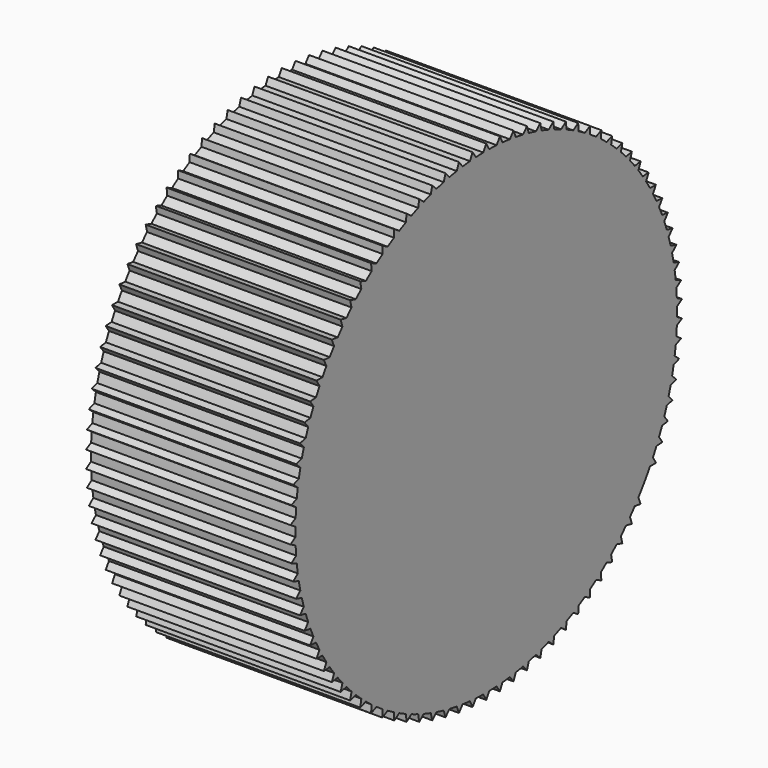
from build123d import *

# Parameters (mm, degrees)
F1_DEPTH = 15


with BuildPart() as f1:
    # F0 (on Right) → F1 (new body)
    with BuildSketch(Plane.YZ):
        with BuildLine():
            Line((-16.659354, 6.730816), (-16.325375, 6.303343))
            ThreePointArc((-16.325375, 6.303343), (-16.444621, 5.985353), (-16.557673, 5.665108))
            Line((-16.557673, 5.665108), (-17.08829, 5.552322))
            Line((-17.08829, 5.552322), (-16.725306, 5.149187))
            ThreePointArc((-16.725306, 5.149187), (-16.82208, 4.823654), (-16.912518, 4.496303))
            Line((-16.912518, 4.496303), (-17.433974, 4.346778))
            Line((-17.433974, 4.346778), (-17.043753, 3.969946))
            ThreePointArc((-17.043753, 3.969946), (-17.117583, 3.638455), (-17.184966, 3.305593))
            Line((-17.184966, 3.305593), (-17.694722, 3.120057))
            Line((-17.694722, 3.120057), (-17.279165, 2.771363))
            ThreePointArc((-17.279165, 2.771363), (-17.329691, 2.435529), (-17.373691, 2.098778))
            Line((-17.373691, 2.098778), (-17.869263, 1.878135))
            Line((-17.869263, 1.878135), (-17.430394, 1.559279))
            ThreePointArc((-17.430394, 1.559279), (-17.457371, 1.220738), (-17.477773, 0.881738))
            Line((-17.477773, 0.881738), (-17.956746, 0.627063))
            Line((-17.956746, 0.627063), (-17.496705, 0.339598))
            ThreePointArc((-17.496705, 0.339598), (-17.5, 0), (-17.496705, -0.339598))
            Line((-17.496705, -0.339598), (-17.956746, -0.627063))
            Line((-17.956746, -0.627063), (-17.477773, -0.881738))
            ThreePointArc((-17.477773, -0.881738), (-17.457371, -1.220738), (-17.430394, -1.559279))
            Line((-17.430394, -1.559279), (-17.869263, -1.878135))
            Line((-17.869263, -1.878135), (-17.373691, -2.098778))
            ThreePointArc((-17.373691, -2.098778), (-17.329691, -2.435529), (-17.279165, -2.771363))
            Line((-17.279165, -2.771363), (-17.694722, -3.120057))
            Line((-17.694722, -3.120057), (-17.184966, -3.305593))
            ThreePointArc((-17.184966, -3.305593), (-17.117583, -3.638455), (-17.043753, -3.969946))
            Line((-17.043753, -3.969946), (-17.433974, -4.346778))
            Line((-17.433974, -4.346778), (-16.912518, -4.496303))
            ThreePointArc((-16.912518, -4.496303), (-16.82208, -4.823654), (-16.725306, -5.149187))
            Line((-16.725306, -5.149187), (-17.08829, -5.552322))
            Line((-17.08829, -5.552322), (-16.557673, -5.665108))
            ThreePointArc((-16.557673, -5.665108), (-16.444621, -5.985353), (-16.325375, -6.303343))
            Line((-16.325375, -6.303343), (-16.659354, -6.730816))
            Line((-16.659354, -6.730816), (-16.122162, -6.806313))
            ThreePointArc((-16.122162, -6.806313), (-15.987046, -7.117891), (-15.845908, -7.426789))
            Line((-15.845908, -7.426789), (-16.149254, -7.876518))
            Line((-16.149254, -7.876518), (-15.608105, -7.914358))
            ThreePointArc((-15.608105, -7.914358), (-15.451583, -8.215752), (-15.289242, -8.514052))
            Line((-15.289242, -8.514052), (-15.560477, -8.983846))
            Line((-15.560477, -8.983846), (-15.018006, -8.983846))
            ThreePointArc((-15.018006, -8.983846), (-14.840842, -9.273587), (-14.658088, -9.559836))
            Line((-14.658088, -9.559836), (-14.895891, -10.047406))
            Line((-14.895891, -10.047406), (-14.354742, -10.009565))
            ThreePointArc((-14.354742, -10.009565), (-14.157797, -10.286242), (-13.955521, -10.559045))
            Line((-13.955521, -10.559045), (-14.158734, -11.062016))
            Line((-14.158734, -11.062016), (-13.621542, -10.986518))
            ThreePointArc((-13.621542, -10.986518), (-13.405778, -11.248783), (-13.184964, -11.506812))
            Line((-13.184964, -11.506812), (-13.352597, -12.022732))
            Line((-13.352597, -12.022732), (-12.82198, -11.909946))
            ThreePointArc((-12.82198, -11.909946), (-12.588447, -12.156521), (-12.350172, -12.398518))
            Line((-12.350172, -12.398518), (-12.481407, -12.924876))
            Line((-12.481407, -12.924876), (-11.959951, -12.77535))
            ThreePointArc((-11.959951, -12.77535), (-11.709786, -13.005034), (-11.45521, -13.229821))
            Line((-11.45521, -13.229821), (-11.54941, -13.76405))
            Line((-11.54941, -13.76405), (-11.039653, -13.578514))
            ThreePointArc((-11.039653, -13.578514), (-10.774076, -13.790188), (-10.50444, -13.996669))
            Line((-10.50444, -13.996669), (-10.561144, -14.536168))
            Line((-10.561144, -14.536168), (-10.065572, -14.315525))
            ThreePointArc((-10.065572, -14.315525), (-9.785876, -14.508158), (-9.502494, -14.695326))
            Line((-9.502494, -14.695326), (-9.521426, -15.237467))
            Line((-9.521426, -15.237467), (-9.042452, -14.982792))
            ThreePointArc((-9.042452, -14.982792), (-8.75, -15.155445), (-8.454252, -15.322389))
            Line((-8.454252, -15.322389), (-8.43532, -15.86453))
            Line((-8.43532, -15.86453), (-7.975279, -15.577064))
            ThreePointArc((-7.975279, -15.577064), (-7.671495, -15.728896), (-7.364822, -15.874804))
            Line((-7.364822, -15.874804), (-7.308119, -16.414303))
            Line((-7.308119, -16.414303), (-6.86925, -16.095447))
            ThreePointArc((-6.86925, -16.095447), (-6.555615, -16.225717), (-6.239512, -16.349878))
            Line((-6.239512, -16.349878), (-6.145312, -16.884107))
            Line((-6.145312, -16.884107), (-5.729756, -16.535414))
            ThreePointArc((-5.729756, -16.535414), (-5.407797, -16.643489), (-5.083803, -16.745296))
            Line((-5.083803, -16.745296), (-4.952567, -17.271654))
            Line((-4.952567, -17.271654), (-4.562346, -16.894822))
            ThreePointArc((-4.562346, -16.894822), (-4.233633, -16.980175), (-3.903326, -17.059134))
            Line((-3.903326, -17.059134), (-3.735693, -17.575054))
            Line((-3.735693, -17.575054), (-3.372709, -17.17192))
            ThreePointArc((-3.372709, -17.17192), (-3.038843, -17.234136), (-2.703833, -17.289861))
            Line((-2.703833, -17.289861), (-2.500619, -17.792831))
            Line((-2.500619, -17.792831), (-2.166641, -17.365358))
            ThreePointArc((-2.166641, -17.365358), (-1.829248, -17.404133), (-1.491166, -17.436353))
            Line((-1.491166, -17.436353), (-1.253363, -17.923923))
            Line((-1.253363, -17.923923), (-0.950017, -17.474194))
            ThreePointArc((-0.950017, -17.474194), (-0.610741, -17.489339), (-0.271236, -17.497898))
            Line((-0.271236, -17.497898), (0, -17.967692))
            Line((0, -17.967692), (0.271236, -17.497898))
            ThreePointArc((0.271236, -17.497898), (0.610741, -17.489339), (0.950017, -17.474194))
            Line((0.950017, -17.474194), (1.253363, -17.923923))
            Line((1.253363, -17.923923), (1.491166, -17.436353))
            ThreePointArc((1.491166, -17.436353), (1.829248, -17.404133), (2.166641, -17.365358))
            Line((2.166641, -17.365358), (2.500619, -17.792831))
            Line((2.500619, -17.792831), (2.703833, -17.289861))
            ThreePointArc((2.703833, -17.289861), (3.038843, -17.234136), (3.372709, -17.17192))
            Line((3.372709, -17.17192), (3.735693, -17.575054))
            Line((3.735693, -17.575054), (3.903326, -17.059134))
            ThreePointArc((3.903326, -17.059134), (4.233633, -16.980175), (4.562346, -16.894822))
            Line((4.562346, -16.894822), (4.952567, -17.271654))
            Line((4.952567, -17.271654), (5.083803, -16.745296))
            ThreePointArc((5.083803, -16.745296), (5.407797, -16.643489), (5.729756, -16.535414))
            Line((5.729756, -16.535414), (6.145312, -16.884107))
            Line((6.145312, -16.884107), (6.239512, -16.349878))
            ThreePointArc((6.239512, -16.349878), (6.555615, -16.225717), (6.86925, -16.095447))
            Line((6.86925, -16.095447), (7.308119, -16.414303))
            Line((7.308119, -16.414303), (7.364822, -15.874804))
            ThreePointArc((7.364822, -15.874804), (7.671495, -15.728896), (7.975279, -15.577064))
            Line((7.975279, -15.577064), (8.43532, -15.86453))
            Line((8.43532, -15.86453), (8.454252, -15.322389))
            ThreePointArc((8.454252, -15.322389), (8.75, -15.155445), (9.042452, -14.982792))
            Line((9.042452, -14.982792), (9.521426, -15.237467))
            Line((9.521426, -15.237467), (9.502494, -14.695326))
            ThreePointArc((9.502494, -14.695326), (9.785876, -14.508158), (10.065572, -14.315525))
            Line((10.065572, -14.315525), (10.561144, -14.536168))
            Line((10.561144, -14.536168), (10.50444, -13.996669))
            ThreePointArc((10.50444, -13.996669), (10.774076, -13.790188), (11.039653, -13.578514))
            Line((11.039653, -13.578514), (11.54941, -13.76405))
            Line((11.54941, -13.76405), (11.45521, -13.229821))
            ThreePointArc((11.45521, -13.229821), (11.709786, -13.005034), (11.959951, -12.77535))
            Line((11.959951, -12.77535), (12.481407, -12.924876))
            Line((12.481407, -12.924876), (12.350172, -12.398518))
            ThreePointArc((12.350172, -12.398518), (12.588447, -12.156521), (12.82198, -11.909946))
            Line((12.82198, -11.909946), (13.352597, -12.022732))
            Line((13.352597, -12.022732), (13.184964, -11.506812))
            ThreePointArc((13.184964, -11.506812), (13.405778, -11.248783), (13.621542, -10.986518))
            Line((13.621542, -10.986518), (14.158734, -11.062016))
            Line((14.158734, -11.062016), (13.955521, -10.559045))
            ThreePointArc((13.955521, -10.559045), (14.157797, -10.286242), (14.354742, -10.009565))
            ThreePointArc((14.354742, -10.009565), (14.508158, -9.785876), (14.658088, -9.559836))
            ThreePointArc((14.658088, -9.559836), (14.840842, -9.273587), (15.018006, -8.983846))
            Line((15.018006, -8.983846), (15.560477, -8.983846))
            Line((15.560477, -8.983846), (15.289242, -8.514052))
            ThreePointArc((15.289242, -8.514052), (15.451583, -8.215752), (15.608105, -7.914358))
            Line((15.608105, -7.914358), (16.149254, -7.876518))
            Line((16.149254, -7.876518), (15.845908, -7.426789))
            ThreePointArc((15.845908, -7.426789), (15.987046, -7.117891), (16.122162, -6.806313))
            Line((16.122162, -6.806313), (16.659354, -6.730816))
            Line((16.659354, -6.730816), (16.325375, -6.303343))
            ThreePointArc((16.325375, -6.303343), (16.444621, -5.985353), (16.557673, -5.665108))
            Line((16.557673, -5.665108), (17.08829, -5.552322))
            Line((17.08829, -5.552322), (16.725306, -5.149187))
            ThreePointArc((16.725306, -5.149187), (16.82208, -4.823654), (16.912518, -4.496303))
            Line((16.912518, -4.496303), (17.433974, -4.346778))
            Line((17.433974, -4.346778), (17.043753, -3.969946))
            ThreePointArc((17.043753, -3.969946), (17.117583, -3.638455), (17.184966, -3.305593))
            Line((17.184966, -3.305593), (17.694722, -3.120057))
            Line((17.694722, -3.120057), (17.279165, -2.771363))
            ThreePointArc((17.279165, -2.771363), (17.329691, -2.435529), (17.373691, -2.098778))
            Line((17.373691, -2.098778), (17.869263, -1.878135))
            Line((17.869263, -1.878135), (17.430394, -1.559279))
            ThreePointArc((17.430394, -1.559279), (17.457371, -1.220738), (17.477773, -0.881738))
            Line((17.477773, -0.881738), (17.956746, -0.627063))
            Line((17.956746, -0.627063), (17.496705, -0.339598))
            ThreePointArc((17.496705, -0.339598), (17.5, 0), (17.496705, 0.339598))
            Line((17.496705, 0.339598), (17.956746, 0.627063))
            Line((17.956746, 0.627063), (17.477773, 0.881738))
            ThreePointArc((17.477773, 0.881738), (17.457371, 1.220738), (17.430394, 1.559279))
            Line((17.430394, 1.559279), (17.869263, 1.878135))
            Line((17.869263, 1.878135), (17.373691, 2.098778))
            ThreePointArc((17.373691, 2.098778), (17.329691, 2.435529), (17.279165, 2.771363))
            Line((17.279165, 2.771363), (17.694722, 3.120057))
            Line((17.694722, 3.120057), (17.184966, 3.305593))
            ThreePointArc((17.184966, 3.305593), (17.117583, 3.638455), (17.043753, 3.969946))
            Line((17.043753, 3.969946), (17.433974, 4.346778))
            Line((17.433974, 4.346778), (16.912518, 4.496303))
            ThreePointArc((16.912518, 4.496303), (16.82208, 4.823654), (16.725306, 5.149187))
            Line((16.725306, 5.149187), (17.08829, 5.552322))
            Line((17.08829, 5.552322), (16.557673, 5.665108))
            ThreePointArc((16.557673, 5.665108), (16.444621, 5.985353), (16.325375, 6.303343))
            Line((16.325375, 6.303343), (16.659354, 6.730816))
            Line((16.659354, 6.730816), (16.122162, 6.806313))
            ThreePointArc((16.122162, 6.806313), (15.987046, 7.117891), (15.845908, 7.426789))
            Line((15.845908, 7.426789), (16.149254, 7.876518))
            Line((16.149254, 7.876518), (15.608105, 7.914358))
            ThreePointArc((15.608105, 7.914358), (15.451583, 8.215752), (15.289242, 8.514052))
            Line((15.289242, 8.514052), (15.560477, 8.983846))
            Line((15.560477, 8.983846), (15.018006, 8.983846))
            ThreePointArc((15.018006, 8.983846), (14.840842, 9.273587), (14.658088, 9.559836))
            Line((14.658088, 9.559836), (14.895891, 10.047406))
            Line((14.895891, 10.047406), (14.354742, 10.009565))
            ThreePointArc((14.354742, 10.009565), (14.157797, 10.286242), (13.955521, 10.559045))
            Line((13.955521, 10.559045), (14.158734, 11.062016))
            Line((14.158734, 11.062016), (13.621542, 10.986518))
            ThreePointArc((13.621542, 10.986518), (13.405778, 11.248783), (13.184964, 11.506812))
            Line((13.184964, 11.506812), (13.352597, 12.022732))
            Line((13.352597, 12.022732), (12.82198, 11.909946))
            ThreePointArc((12.82198, 11.909946), (12.588447, 12.156521), (12.350172, 12.398518))
            Line((12.350172, 12.398518), (12.481407, 12.924876))
            Line((12.481407, 12.924876), (11.959951, 12.77535))
            ThreePointArc((11.959951, 12.77535), (11.709786, 13.005034), (11.45521, 13.229821))
            Line((11.45521, 13.229821), (11.54941, 13.76405))
            Line((11.54941, 13.76405), (11.039653, 13.578514))
            ThreePointArc((11.039653, 13.578514), (10.774076, 13.790188), (10.50444, 13.996669))
            Line((10.50444, 13.996669), (10.561144, 14.536168))
            Line((10.561144, 14.536168), (10.065572, 14.315525))
            ThreePointArc((10.065572, 14.315525), (9.785876, 14.508158), (9.502494, 14.695326))
            Line((9.502494, 14.695326), (9.521426, 15.237467))
            Line((9.521426, 15.237467), (9.042452, 14.982792))
            ThreePointArc((9.042452, 14.982792), (8.75, 15.155445), (8.454252, 15.322389))
            Line((8.454252, 15.322389), (8.43532, 15.86453))
            Line((8.43532, 15.86453), (7.975279, 15.577064))
            ThreePointArc((7.975279, 15.577064), (7.671495, 15.728896), (7.364822, 15.874804))
            Line((7.364822, 15.874804), (7.308119, 16.414303))
            Line((7.308119, 16.414303), (6.86925, 16.095447))
            ThreePointArc((6.86925, 16.095447), (6.555615, 16.225717), (6.239512, 16.349878))
            Line((6.239512, 16.349878), (6.145312, 16.884107))
            Line((6.145312, 16.884107), (5.729756, 16.535414))
            ThreePointArc((5.729756, 16.535414), (5.407797, 16.643489), (5.083803, 16.745296))
            Line((5.083803, 16.745296), (4.952567, 17.271654))
            Line((4.952567, 17.271654), (4.562346, 16.894822))
            ThreePointArc((4.562346, 16.894822), (4.233633, 16.980175), (3.903326, 17.059134))
            Line((3.903326, 17.059134), (3.735693, 17.575054))
            Line((3.735693, 17.575054), (3.372709, 17.17192))
            ThreePointArc((3.372709, 17.17192), (3.038843, 17.234136), (2.703833, 17.289861))
            Line((2.703833, 17.289861), (2.500619, 17.792831))
            Line((2.500619, 17.792831), (2.166641, 17.365358))
            ThreePointArc((2.166641, 17.365358), (1.829248, 17.404133), (1.491166, 17.436353))
            Line((1.491166, 17.436353), (1.253363, 17.923923))
            Line((1.253363, 17.923923), (0.950017, 17.474194))
            ThreePointArc((0.950017, 17.474194), (0.610741, 17.489339), (0.271236, 17.497898))
            Line((0.271236, 17.497898), (0, 17.967692))
            Line((0, 17.967692), (-0.271236, 17.497898))
            ThreePointArc((-0.271236, 17.497898), (-0.610741, 17.489339), (-0.950017, 17.474194))
            Line((-0.950017, 17.474194), (-1.253363, 17.923923))
            Line((-1.253363, 17.923923), (-1.491166, 17.436353))
            ThreePointArc((-1.491166, 17.436353), (-1.829248, 17.404133), (-2.166641, 17.365358))
            Line((-2.166641, 17.365358), (-2.500619, 17.792831))
            Line((-2.500619, 17.792831), (-2.703833, 17.289861))
            ThreePointArc((-2.703833, 17.289861), (-3.038843, 17.234136), (-3.372709, 17.17192))
            Line((-3.372709, 17.17192), (-3.735693, 17.575054))
            Line((-3.735693, 17.575054), (-3.903326, 17.059134))
            ThreePointArc((-3.903326, 17.059134), (-4.233633, 16.980175), (-4.562346, 16.894822))
            Line((-4.562346, 16.894822), (-4.952567, 17.271654))
            Line((-4.952567, 17.271654), (-5.083803, 16.745296))
            ThreePointArc((-5.083803, 16.745296), (-5.407797, 16.643489), (-5.729756, 16.535414))
            Line((-5.729756, 16.535414), (-6.145312, 16.884107))
            Line((-6.145312, 16.884107), (-6.239512, 16.349878))
            ThreePointArc((-6.239512, 16.349878), (-6.555615, 16.225717), (-6.86925, 16.095447))
            Line((-6.86925, 16.095447), (-7.308119, 16.414303))
            Line((-7.308119, 16.414303), (-7.364822, 15.874804))
            ThreePointArc((-7.364822, 15.874804), (-7.671495, 15.728896), (-7.975279, 15.577064))
            Line((-7.975279, 15.577064), (-8.43532, 15.86453))
            Line((-8.43532, 15.86453), (-8.454252, 15.322389))
            ThreePointArc((-8.454252, 15.322389), (-8.75, 15.155445), (-9.042452, 14.982792))
            Line((-9.042452, 14.982792), (-9.521426, 15.237467))
            Line((-9.521426, 15.237467), (-9.502494, 14.695326))
            ThreePointArc((-9.502494, 14.695326), (-9.785876, 14.508158), (-10.065572, 14.315525))
            Line((-10.065572, 14.315525), (-10.561144, 14.536168))
            Line((-10.561144, 14.536168), (-10.50444, 13.996669))
            ThreePointArc((-10.50444, 13.996669), (-10.774076, 13.790188), (-11.039653, 13.578514))
            Line((-11.039653, 13.578514), (-11.54941, 13.76405))
            Line((-11.54941, 13.76405), (-11.45521, 13.229821))
            ThreePointArc((-11.45521, 13.229821), (-11.709786, 13.005034), (-11.959951, 12.77535))
            Line((-11.959951, 12.77535), (-12.481407, 12.924876))
            Line((-12.481407, 12.924876), (-12.350172, 12.398518))
            ThreePointArc((-12.350172, 12.398518), (-12.588447, 12.156521), (-12.82198, 11.909946))
            Line((-12.82198, 11.909946), (-13.352597, 12.022732))
            Line((-13.352597, 12.022732), (-13.184964, 11.506812))
            ThreePointArc((-13.184964, 11.506812), (-13.405778, 11.248783), (-13.621542, 10.986518))
            Line((-13.621542, 10.986518), (-14.158734, 11.062016))
            Line((-14.158734, 11.062016), (-13.955521, 10.559045))
            ThreePointArc((-13.955521, 10.559045), (-14.157797, 10.286242), (-14.354742, 10.009565))
            Line((-14.354742, 10.009565), (-14.895891, 10.047406))
            Line((-14.895891, 10.047406), (-14.658088, 9.559836))
            ThreePointArc((-14.658088, 9.559836), (-14.840842, 9.273587), (-15.018006, 8.983846))
            Line((-15.018006, 8.983846), (-15.560477, 8.983846))
            Line((-15.560477, 8.983846), (-15.289242, 8.514052))
            ThreePointArc((-15.289242, 8.514052), (-15.451583, 8.215752), (-15.608105, 7.914358))
            Line((-15.608105, 7.914358), (-16.149254, 7.876518))
            Line((-16.149254, 7.876518), (-15.845908, 7.426789))
            ThreePointArc((-15.845908, 7.426789), (-15.987046, 7.117891), (-16.122162, 6.806313))
            Line((-16.122162, 6.806313), (-16.659354, 6.730816))
        make_face()
    extrude(amount=F1_DEPTH)


solid = f1.part
